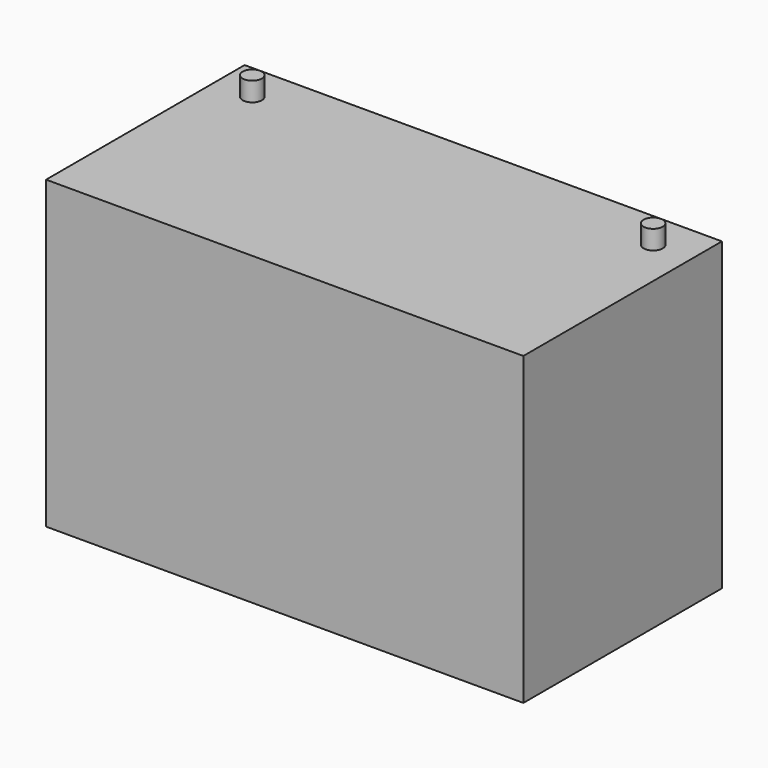
from build123d import *

# Parameters (mm, degrees)
F0_W     = 317.5
F0_H     = 165.1
F1_DEPTH = 101.6
F2_R     = 6.35
F3_DEPTH = 12.7


with BuildPart() as f1:
    # F0 (on Top) → F1 (new body, symmetric)
    with BuildSketch(Plane.XY):
        Rectangle(F0_W, F0_H)
    extrude(amount=F1_DEPTH, both=True)

    # F2 (on face) → F3 (join)
    with BuildSketch(Plane.XY.offset(101.6)):
        with Locations((-133.35, 57.15)):
            Circle(F2_R)
        with Locations((133.35, 57.15)):
            Circle(F2_R)
    extrude(amount=F3_DEPTH)


solid = f1.part
